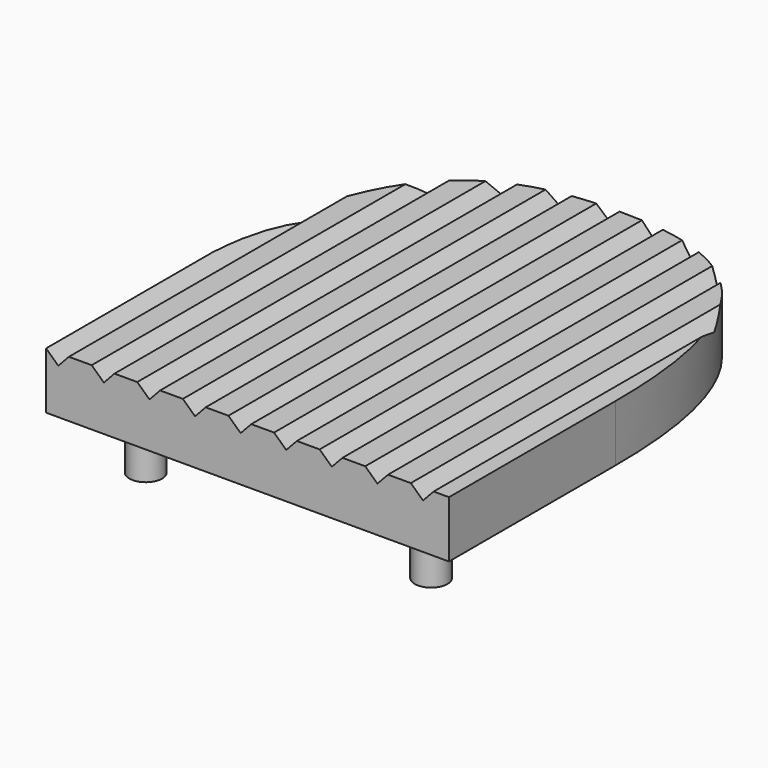
from build123d import *

# Parameters (mm, degrees)
F1_DEPTH = 5.2
F2_R     = 1.5
F3_DEPTH = 5
F5_DEPTH = 47.5


with BuildPart() as f1:
    # F0 (on Top) → F1 (new body)
    with BuildSketch(Plane.XY):
        with BuildLine():
            Line((0.583725, -2.803512), (0.583725, -45.083512))
            Line((0.583725, -45.083512), (19.083725, -45.083512))
            Line((19.083725, -45.083512), (19.083725, -25.983512))
            add(Edge.make_bspline(
                [(0.583725, -2.803512), (9.709766, -2.709429), (19.109245, -5.561374), (19.083725, -25.983512)],
                knots=[29.657417, 29.657417, 29.657417, 29.657417, 59.314835, 59.314835, 59.314835, 59.314835], degree=3))
        make_face()
        with BuildLine():
            Line((-17.916275, -25.983512), (-17.916275, -45.083512))
            Line((-17.916275, -45.083512), (0.583725, -45.083512))
            Line((0.583725, -45.083512), (0.583725, -2.803512))
            add(Edge.make_bspline(
                [(-17.916275, -25.983512), (-17.394919, -5.937705), (-8.542316, -2.897594), (0.583725, -2.803512)],
                knots=[0, 0, 0, 0, 29.657417, 29.657417, 29.657417, 29.657417], degree=3))
        make_face()
    extrude(amount=F1_DEPTH)

    # F2 (on face) → F3 (join)
    with BuildSketch(Plane(origin=(0, 0, 0), x_dir=(1, 0, 0), z_dir=(0, 0, -1))):
        with Locations((-12.516275, 40.383512)):
            Circle(F2_R)
        with Locations((13.683725, 40.383512)):
            Circle(F2_R)
    extrude(amount=F3_DEPTH)

    # F4 (on face) → F5 (cut)
    with BuildSketch(Plane.XZ.offset(45.083512)):
        Polygon((-15.822776, 5.2), (-17.916275, 5.2), (-16.794978, 4.155909), align=None)
        Polygon((-11.635779, 5.2), (-13.729278, 5.2), (-12.607981, 4.155909), align=None)
        Polygon((-7.448782, 5.2), (-9.542281, 5.2), (-8.420984, 4.155909), align=None)
        Polygon((-3.261785, 5.2), (-5.355284, 5.2), (-4.233987, 4.155909), align=None)
        Polygon((0.925212, 5.2), (-1.168287, 5.2), (-0.046989, 4.155909), align=None)
        Polygon((5.112209, 5.2), (3.01871, 5.2), (4.140008, 4.155909), align=None)
        Polygon((8.327005, 4.155909), (9.299206, 5.2), (7.205707, 5.2), align=None)
        Polygon((12.514002, 4.155909), (13.486203, 5.2), (11.392704, 5.2), align=None)
        Polygon((16.700999, 4.155909), (17.6732, 5.2), (15.579701, 5.2), align=None)
    extrude(amount=-F5_DEPTH, mode=Mode.SUBTRACT)


solid = f1.part
